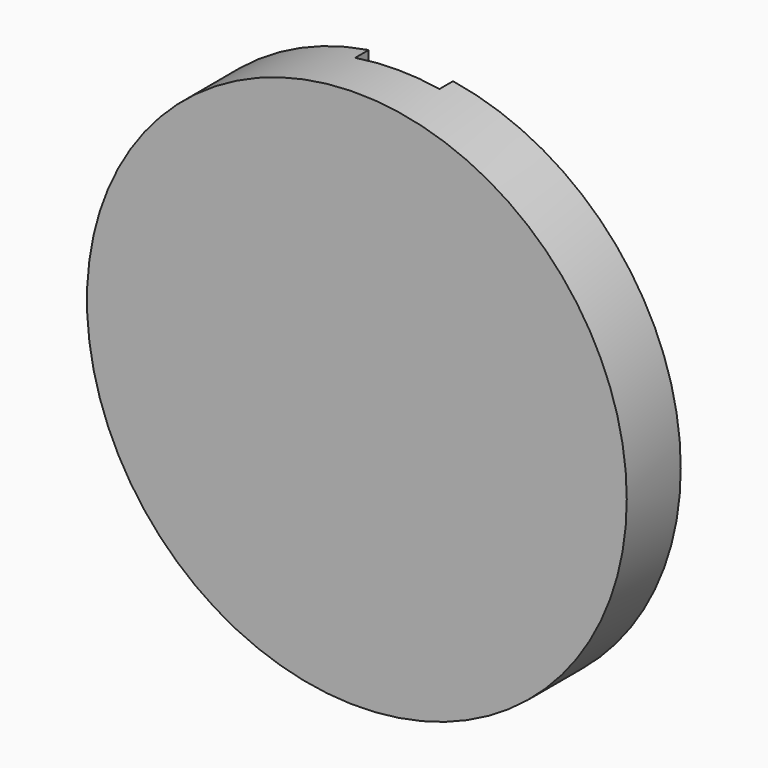
from build123d import *

# Parameters (mm, degrees)
F0_R     = 80
F1_DEPTH = 20
F2_W     = 25
F2_H     = 160
F3_DEPTH = 5


with BuildPart() as f1:
    # F0 (on Front) → F1 (new body)
    with BuildSketch(Plane.XZ):
        Circle(F0_R)
    extrude(amount=F1_DEPTH)

    # F2 (on Front) → F3 (cut)
    with BuildSketch(Plane.XZ):
        Rectangle(F2_W, F2_H)
    extrude(amount=F3_DEPTH, mode=Mode.SUBTRACT)


solid = f1.part
